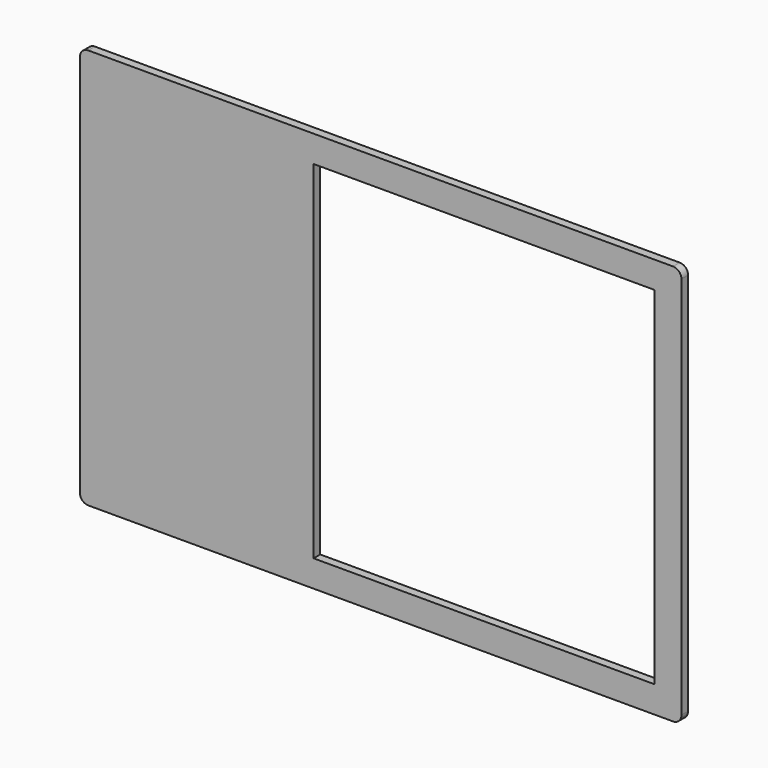
from build123d import *

# Parameters (mm, degrees)
F1_DEPTH = 2.5
F2_DEPTH = 2.5
F3_DEPTH = 2.5
F0_W     = 102.1108726621
F0_H     = 8
F4_DEPTH = 2.5
F5_DEPTH = 2.5
F6_R     = 2.5
F7_R     = 2.5
F8_R     = 2.5
F9_R     = 2.5


with BuildPart() as f1:
    # F0 (on Front) → F1 (new body)
    with BuildSketch(Plane.XZ):
        Polygon((-20.1, 60), (-90.1, 60), (-90.1, -60), (-20.1, -60), (-20.1, -52), (-20.1, 52), align=None)
    extrude(amount=F1_DEPTH)

    # F0 (on Front) → F2 (join)
    with BuildSketch(Plane.XZ):
        Polygon((90.1, 60), (-20.1, 60), (-20.1, 52), (82.0108726621, 52), (90.1, 52), align=None)
    extrude(amount=F2_DEPTH)

    # F0 (on Front) → F3 (join)
    with BuildSketch(Plane.XZ):
        Polygon((90.1, -60), (90.1, 52), (82.0108726621, 52), (82.0108726621, -52), (82.0108726621, -60), align=None)
    extrude(amount=F3_DEPTH)

    # F0 (on Front) → F4 (join)
    with BuildSketch(Plane.XZ):
        with Locations((30.955436331, -56)):
            Rectangle(F0_W, F0_H)
    extrude(amount=F4_DEPTH)

    # F0 (on Front) → F5 (join)
    with BuildSketch(Plane.XZ):
        Polygon((90.1, -60), (90.1, 52), (82.0108726621, 52), (82.0108726621, -52), (82.0108726621, -60), align=None)
    extrude(amount=F5_DEPTH)

    # F6
    f6_edges = [f1.edges().sort_by_distance(p)[0] for p in [
        (-90.1, -1.25, 60),
    ]]
    fillet(f6_edges, radius=F6_R)

    # F7
    f7_edges = [f1.edges().sort_by_distance(p)[0] for p in [
        (90.1, -1.25, 60),
    ]]
    fillet(f7_edges, radius=F7_R)

    # F8
    f8_edges = [f1.edges().sort_by_distance(p)[0] for p in [
        (90.1, -1.25, -60),
    ]]
    fillet(f8_edges, radius=F8_R)

    # F9
    f9_edges = [f1.edges().sort_by_distance(p)[0] for p in [
        (-90.1, -1.25, -60),
    ]]
    fillet(f9_edges, radius=F9_R)


solid = f1.part
